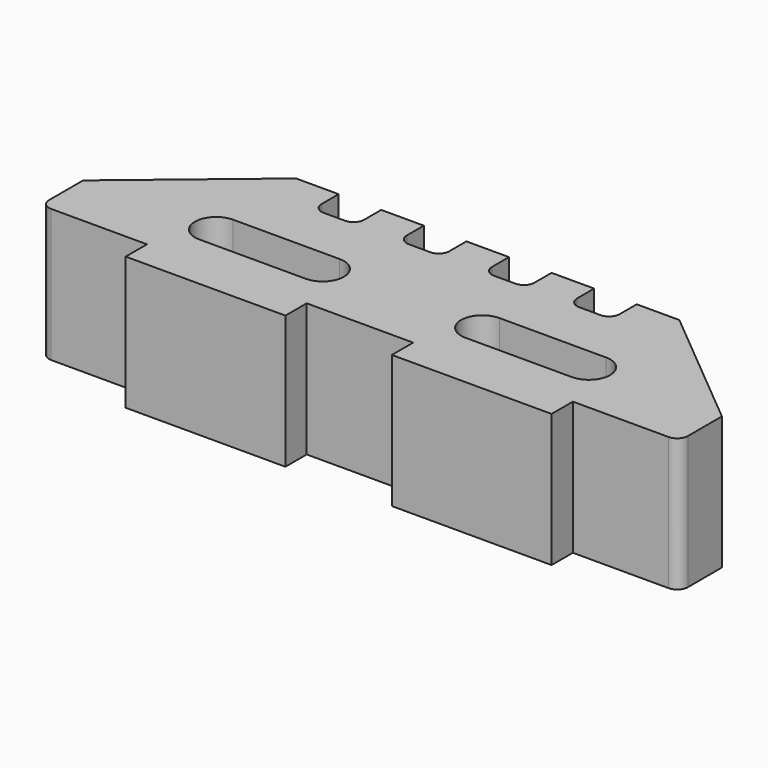
from build123d import *

# Parameters (mm, degrees)
F1_DEPTH = 25


with BuildPart() as f1:
    # F0 (on Top) → F1 (new body)
    with BuildSketch(Plane.XY):
        with BuildLine():
            Line((-68, -40.213773), (-68, -45.213773))
            Line((-68, -45.213773), (-38, -45.213773))
            Line((-38, -45.213773), (-38, -40.213773))
            Line((-38, -40.213773), (-28, -40.213773))
            Line((-28, -40.213773), (-28, -10.213773))
            Line((-28, -10.213773), (-32, -10.213773))
            Line((-32, -10.213773), (-32, -14.213773))
            ThreePointArc((-32, -14.213773), (-32.585786, -15.627986), (-34, -16.213773))
            Line((-34, -16.213773), (-38, -16.213773))
            ThreePointArc((-38, -16.213773), (-39.414214, -15.627986), (-40, -14.213773))
            Line((-40, -14.213773), (-40, -10.213773))
            Line((-40, -10.213773), (-48, -10.213773))
            Line((-48, -10.213773), (-48, -14.213773))
            ThreePointArc((-48, -14.213773), (-48.585786, -15.627986), (-50, -16.213773))
            Line((-50, -16.213773), (-54, -16.213773))
            ThreePointArc((-54, -16.213773), (-55.414214, -15.627986), (-56, -14.213773))
            Line((-56, -14.213773), (-56, -10.213773))
            Line((-56, -10.213773), (-64, -10.213773))
            Line((-64, -10.213773), (-88, -30.213773))
            Line((-88, -30.213773), (-88, -38.213773))
            ThreePointArc((-88, -38.213773), (-87.414214, -39.627986), (-86, -40.213773))
            Line((-86, -40.213773), (-68, -40.213773))
        make_face()
        with BuildLine():
            Line((-63, -26.213773), (-43, -26.213773))
            ThreePointArc((-43, -26.213773), (-39, -30.213773), (-43, -34.213773))
            Line((-43, -34.213773), (-63, -34.213773))
            ThreePointArc((-63, -34.213773), (-67, -30.213773), (-63, -26.213773))
        make_face(mode=Mode.SUBTRACT)
        with BuildLine():
            Line((-28, -10.213773), (-28, -40.213773))
            Line((-28, -40.213773), (-18, -40.213773))
            Line((-18, -40.213773), (-18, -45.213773))
            Line((-18, -45.213773), (12, -45.213773))
            Line((12, -45.213773), (12, -40.213773))
            Line((12, -40.213773), (30, -40.213773))
            ThreePointArc((30, -40.213773), (31.414214, -39.627986), (32, -38.213773))
            Line((32, -38.213773), (32, -30.213773))
            Line((32, -30.213773), (8, -10.213773))
            Line((8, -10.213773), (0, -10.213773))
            Line((0, -10.213773), (0, -14.213773))
            ThreePointArc((0, -14.213773), (-0.585786, -15.627986), (-2, -16.213773))
            Line((-2, -16.213773), (-6, -16.213773))
            ThreePointArc((-6, -16.213773), (-7.414214, -15.627986), (-8, -14.213773))
            Line((-8, -14.213773), (-8, -10.213773))
            Line((-8, -10.213773), (-16, -10.213773))
            Line((-16, -10.213773), (-16, -14.213773))
            ThreePointArc((-16, -14.213773), (-16.585786, -15.627986), (-18, -16.213773))
            Line((-18, -16.213773), (-22, -16.213773))
            ThreePointArc((-22, -16.213773), (-23.414214, -15.627986), (-24, -14.213773))
            Line((-24, -14.213773), (-24, -10.213773))
            Line((-24, -10.213773), (-28, -10.213773))
        make_face()
        with BuildLine():
            Line((7, -34.213773), (-13, -34.213773))
            ThreePointArc((-13, -34.213773), (-17, -30.213773), (-13, -26.213773))
            Line((-13, -26.213773), (7, -26.213773))
            ThreePointArc((7, -26.213773), (11, -30.213773), (7, -34.213773))
        make_face(mode=Mode.SUBTRACT)
    extrude(amount=F1_DEPTH)


solid = f1.part
